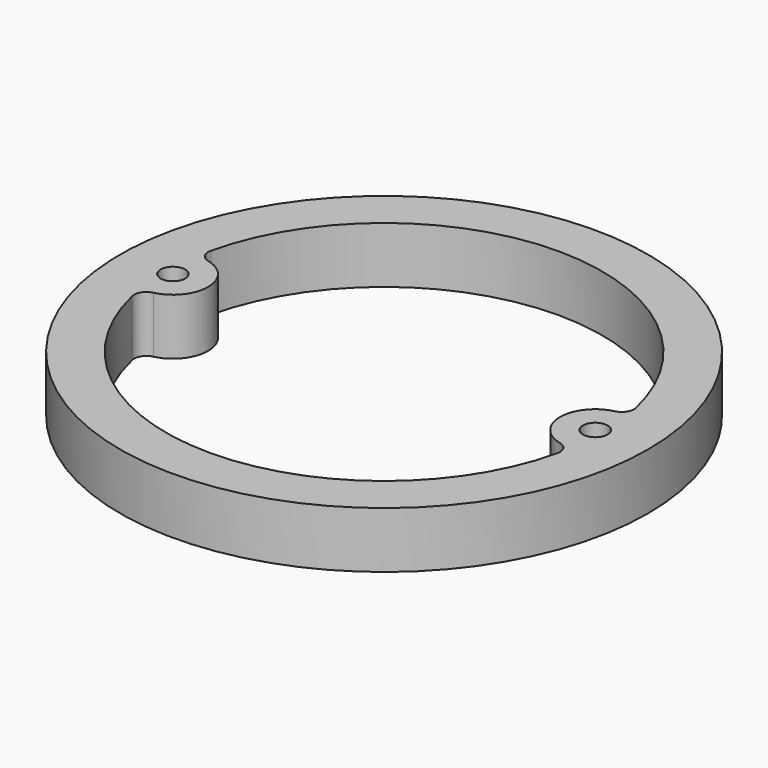
from build123d import *

# Parameters (mm, degrees)
F0_R     = 37.5
F0_R_2   = 1.75
F1_DEPTH = 8


with BuildPart() as f1:
    # F0 (on Top) → F1 (new body)
    with BuildSketch(Plane.XY):
        Circle(F0_R)
        with Locations((-30, 0)):
            Circle(F0_R_2, mode=Mode.SUBTRACT)
        with BuildLine():
            ThreePointArc((30.205128, -6.974972), (0, -31), (-30.205128, -6.974972))
            ThreePointArc((-30.205128, -6.974972), (-29.982807, -5.651825), (-28.888889, -4.87498))
            ThreePointArc((-28.888889, -4.87498), (-25, 0), (-28.888889, 4.87498))
            ThreePointArc((-28.888889, 4.87498), (-29.982807, 5.651825), (-30.205128, 6.974972))
            ThreePointArc((-30.205128, 6.974972), (0, 31), (30.205128, 6.974972))
            ThreePointArc((30.205128, 6.974972), (29.982807, 5.651825), (28.888889, 4.87498))
            ThreePointArc((28.888889, 4.87498), (25, 0), (28.888889, -4.87498))
            ThreePointArc((28.888889, -4.87498), (29.982807, -5.651825), (30.205128, -6.974972))
        make_face(mode=Mode.SUBTRACT)
        with Locations((30, 0)):
            Circle(F0_R_2, mode=Mode.SUBTRACT)
    extrude(amount=F1_DEPTH)


solid = f1.part
